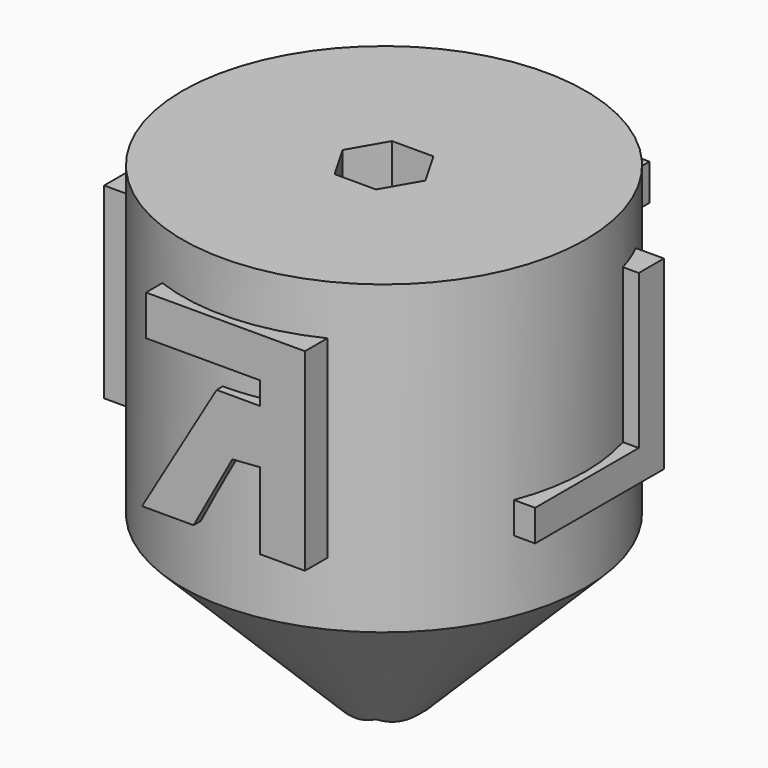
from build123d import *

# Parameters (mm, degrees)
F4_DEPTH  = 71.64283
F3_W      = 3.0015474185
F3_H      = 14.726341702
F5_DEPTH  = 20
F6_W      = 2.8139539063
F6_H      = 14.6325449459
F6_W_2    = 3.7519335747
F6_H_2    = 6.5658856183
F7_DEPTH  = 20
F9_DEPTH  = 20
F10_W     = 7.6914660167
F10_H     = 3.1891446561
F11_DEPTH = 20
F12_DEPTH = 49.92346


with BuildPart() as f1:
    # F0 (on Front) → F1 (revolve)
    with BuildSketch(Plane.XZ):
        Polygon((0, -24.5069297566), (0, 4.7725648619), (-4.554358311, 4.7725648619), (-19.2684326321, 4.7725648619), (-19.2684326321, -24.5069297566), align=None)
        Polygon((0, -43.7753610313), (0, -24.5069297566), (-19.2684326321, -24.5069297566), align=None)
    revolve(axis=Axis((0, 0, -9.8671824473), (0, 0, -1)))

    # F2 (on Top) → F4 (cut)
    with BuildSketch(Plane.XY):
        Polygon((-1.9789263333, -3.4276009537), (1.9789263333, -3.4276009537), (3.9578526666, 0), (1.9789263333, 3.4276009537), (-1.9789263333, 3.4276009537), (-3.9578526666, 0), align=None)
    extrude(amount=F4_DEPTH, mode=Mode.SUBTRACT)

    # F3 (on Right) → F5 (join)
    with BuildSketch(Plane.YZ):
        with Locations((6.941080559, -7.363170851)):
            Rectangle(F3_W, F3_H)
        Polygon((8.4418542683, -17.7278891206), (8.4418542683, -14.726341702), (5.4403068498, -14.726341702), (-6.9410782307, -14.726341702), (-6.9410782307, -17.7278891206), align=None)
    extrude(amount=F5_DEPTH)

    # F6 (on Right) → F7 (join)
    with BuildSketch(Plane.YZ):
        Polygon((9.0046431869, -3.2829423435), (9.0046431869, 0), (-8.4418542683, 0), (-8.4418542683, -3.2829423435), (-5.627900362, -3.2829423435), align=None)
        with Locations((-7.0348773152, -10.5992148165)):
            Rectangle(F6_W, F6_H)
        with Locations((6.5658842213, -14.6325444803)):
            Rectangle(F6_W_2, F6_H_2)
    extrude(amount=-F7_DEPTH)

    # F8 (on Front) → F9 (join)
    with BuildSketch(Plane.XZ):
        Polygon((8.4418524057, 0), (-6.7534814589, 0), (-6.7534814589, -3.8457328919), (4.1271289811, -3.8457328919), (8.4418524057, -3.8457328919), align=None)
        Polygon((8.4418524057, -18.4782778379), (8.4418524057, -3.8457328919), (4.1271289811, -3.8457328919), (4.1271289811, -6.0030948953), (4.1271289811, -11.1620053649), (4.1271289811, -18.4782778379), align=None)
        Polygon((4.1271289811, -11.1620053649), (4.1271289811, -6.0030948953), (0, -6.0030948953), (-7.1286750026, -18.1030835956), (-2.2027484971, -18.1030835956), (1.5007748734, -11.3496016711), align=None)
    extrude(amount=F9_DEPTH)

    # F10 (on Front) → F11 (join)
    with BuildSketch(Plane.XZ):
        Polygon((9.3798367307, -3.4705393482), (9.3798367307, 0), (-9.1922413558, 0), (-9.1922413558, -3.4705393482), (-6.1906939372, -3.4705393482), align=None)
        Polygon((-6.1906939372, -3.4705393482), (-9.1922413558, -3.4705393482), (-9.1922413558, -17.3526965082), (-6.1906939372, -17.3526965082), (-6.1906939372, -13.7883592397), align=None)
        Polygon((4.689917434, -13.7883592397), (-6.1906939372, -13.7883592397), (-6.1906939372, -17.3526965082), (9.0046431869, -17.3526965082), (9.0046431869, -13.7883592397), align=None)
        Polygon((4.689917434, -11.3496016711), (4.689917434, -13.7883592397), (9.0046431869, -13.7883592397), (9.0046431869, -8.160457015), (4.689917434, -8.160457015), align=None)
        with Locations((0.8441844257, -9.7550293431)):
            Rectangle(F10_W, F10_H)
    extrude(amount=-F11_DEPTH)

    # F2 (on Top) → F12 (cut)
    with BuildSketch(Plane.XY):
        Polygon((-1.9789263333, -3.4276009537), (1.9789263333, -3.4276009537), (3.9578526666, 0), (1.9789263333, 3.4276009537), (-1.9789263333, 3.4276009537), (-3.9578526666, 0), align=None)
    extrude(amount=-F12_DEPTH, mode=Mode.SUBTRACT)


solid = f1.part
